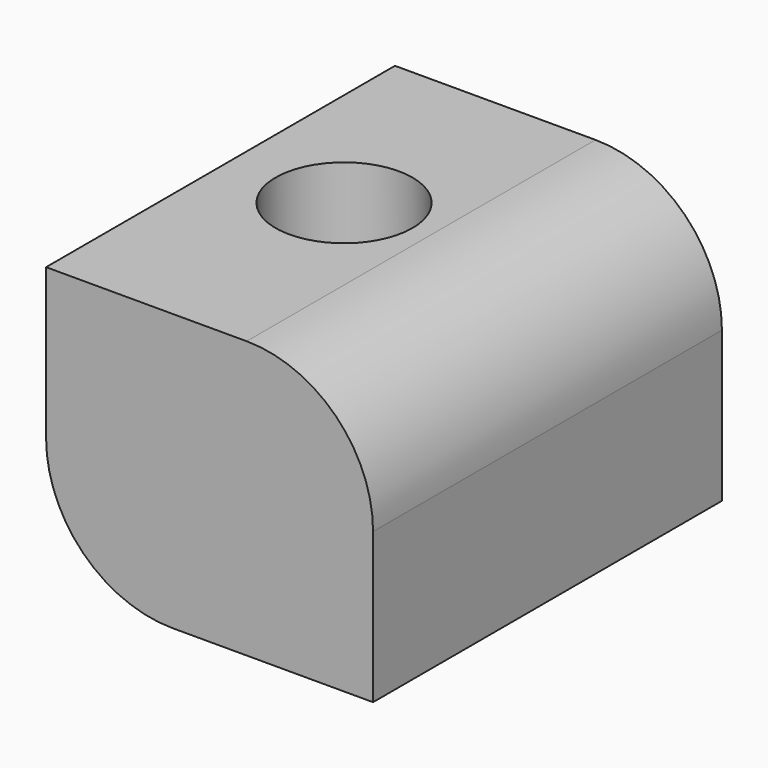
from build123d import *

# Parameters (mm, degrees)
F0_W     = 13.141317
F0_H     = 11.119574
F1_DEPTH = 17.526
F2_R     = 2.750597
F3_DEPTH = 6.35
F4_R     = 5.08


with BuildPart() as f1:
    # F0 (on Front) → F1 (new body)
    with BuildSketch(Plane.XZ):
        with Locations((-35.02122, 31.799372)):
            Rectangle(F0_W, F0_H)
    extrude(amount=F1_DEPTH)

    # F2 (on face) → F3 (cut)
    with BuildSketch(Plane.XY.offset(37.359159)):
        with Locations((-37.022505, -8.269278)):
            Circle(F2_R)
    extrude(amount=-F3_DEPTH, mode=Mode.SUBTRACT)

    # F4
    f4_edges = [f1.edges().sort_by_distance(p)[0] for p in [
        (-28.450562, -8.763, 37.359159),
        (-41.591879, -8.763, 26.239585),
    ]]
    fillet(f4_edges, radius=F4_R)


solid = f1.part
